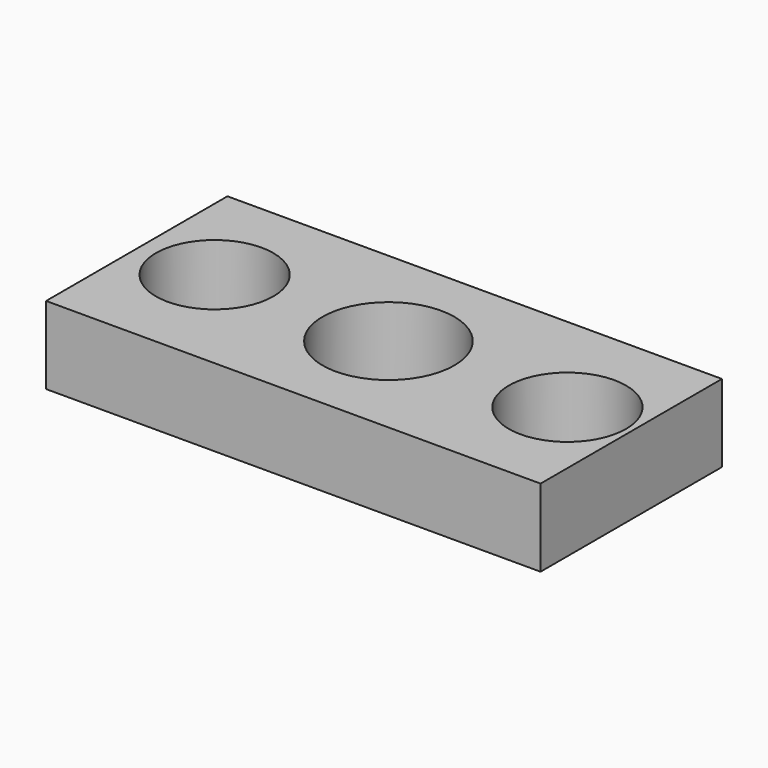
from build123d import *

# Parameters (mm, degrees)
F0_W      = 82.55
F0_H      = 38.1
F0_R      = 9.8
F0_R_2    = 11
F1_DEPTH  = 12.954
F1_FACE_W = 82.55
F1_FACE_H = 12.954
F2_DEPTH  = 0.254


with BuildPart() as f1:
    # F0 (on Top) → F1 (new body)
    with BuildSketch(Plane.XY):
        with Locations((41.275, 19.05)):
            Rectangle(F0_W, F0_H)
        with Locations((12.531688, 19.761506)):
            Circle(F0_R, mode=Mode.SUBTRACT)
        with Locations((41.932955, 19.279519)):
            Circle(F0_R_2, mode=Mode.SUBTRACT)
        with Locations((71.816206, 19.279519)):
            Circle(F0_R, mode=Mode.SUBTRACT)
    extrude(amount=F1_DEPTH)

    # F1_face (on face) → F2 (cut)
    with BuildSketch(Plane(origin=(41.275, 0, 6.477), x_dir=(1, 0, 0), z_dir=(0, -1, 0))):
        Rectangle(F1_FACE_W, F1_FACE_H)
    extrude(amount=-F2_DEPTH, mode=Mode.SUBTRACT)


solid = f1.part
